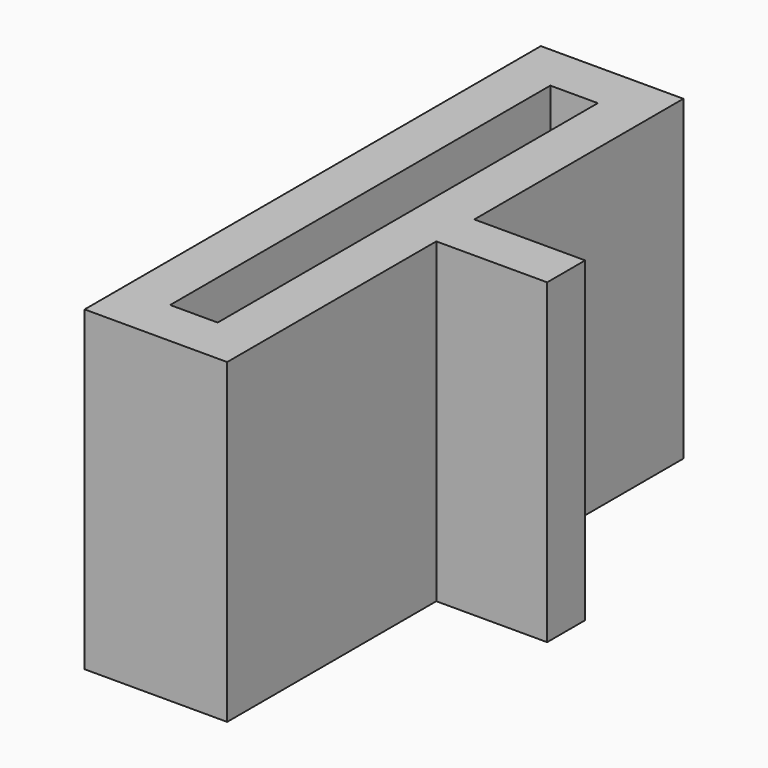
from build123d import *

# Parameters (mm, degrees)
F1_DEPTH = 20
F2_W     = 3
F2_H     = 30
F3_DEPTH = 20.001


with BuildPart() as f1:
    # F0 (on Top) → F1 (new body)
    with BuildSketch(Plane.XY):
        Polygon((0, 36), (0, 0), (9, 0), (9, 16.5), (16, 16.5), (16, 19.5), (9, 19.5), (9, 36), align=None)
    extrude(amount=F1_DEPTH)

    # F2 (on face) → F3 (cut, through all)
    with BuildSketch(Plane.XY.offset(20)):
        with Locations((4.5, 18)):
            Rectangle(F2_W, F2_H)
    extrude(amount=-F3_DEPTH, mode=Mode.SUBTRACT)


solid = f1.part
